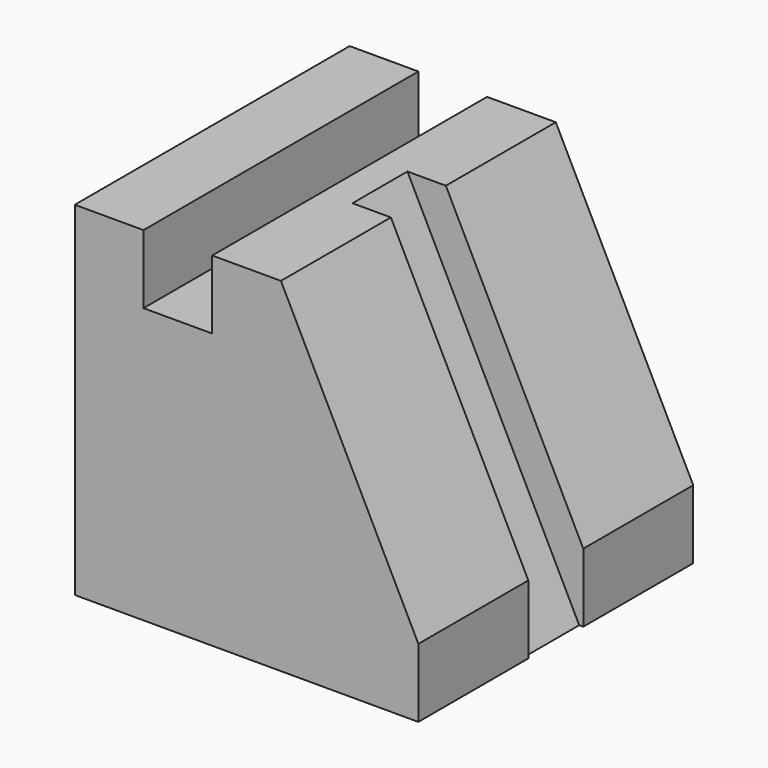
from build123d import *

# Parameters (mm, degrees)
F1_DEPTH = 100
F2_W     = 20
F2_H     = 89.4427191
F3_DEPTH = 10
F4_DEPTH = 10
F5_DEPTH = 10
F6_DEPTH = 10


with BuildPart() as f1:
    # F0 (on Front) → F1 (new body)
    with BuildSketch(Plane.XZ):
        Polygon((0, 100), (0, 0), (100, 0), (100, 20), (60, 100), (40, 100), (40, 80), (20, 80), (20, 100), align=None)
    extrude(amount=F1_DEPTH)

    # F2 (on face) → F3 (cut)
    with BuildSketch(Plane(origin=(88, 0, 44), x_dir=(0, 1, 0), z_dir=(0.894427191, 0, 0.4472135955))):
        with Locations((-50, 17.88854382)):
            Rectangle(F2_W, F2_H)
    extrude(amount=-F3_DEPTH, mode=Mode.SUBTRACT)

    # F4 (cut): a face of the model
    f4_faces = [f1.faces().sort_by_distance(p)[0] for p in [
        (55.527864045, -50, 97.7639320225),
    ]]
    extrude(f4_faces, amount=-F4_DEPTH, mode=Mode.SUBTRACT)

    # F5 (cut): a face of the model
    f5_faces = [f1.faces().sort_by_distance(p)[0] for p in [
        (95.527864045, -50, 17.7639320225),
    ]]
    extrude(f5_faces, amount=-F5_DEPTH, mode=Mode.SUBTRACT)

    # F6 (cut): a face of the model
    f6_faces = [f1.faces().sort_by_distance(p)[0] for p in [
        (97.7639320225, -50, 7.7016261238),
    ]]
    extrude(f6_faces, amount=-F6_DEPTH, mode=Mode.SUBTRACT)


solid = f1.part
